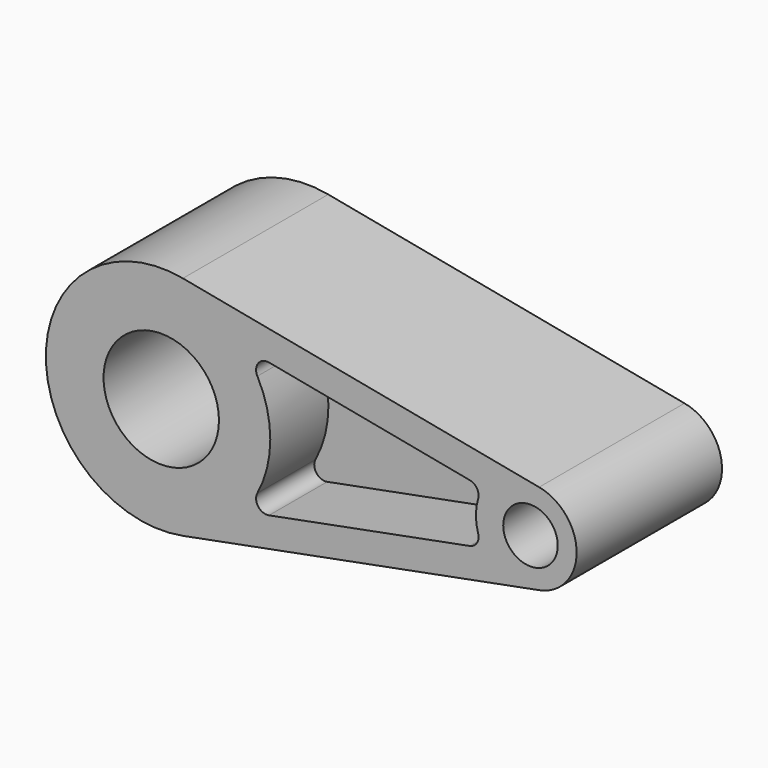
from build123d import *

# Parameters (mm, degrees)
F1_DEPTH = 25
F3_D     = 15
F4_R     = 15.875
F5_DEPTH = 50.001
F7_DEPTH = 20
F9_DEPTH = 20
F10_R    = 3
F11_R    = 3


with BuildPart() as f1:
    # F0 (on Front) → F1 (new body, symmetric)
    with BuildSketch(Plane.XZ):
        with BuildLine():
            Line((103.98125, 12.47476), (5.953125, 31.186901))
            ThreePointArc((5.953125, 31.186901), (-31.75, 0), (5.953125, -31.186901))
            Line((5.953125, -31.186901), (103.98125, -12.47476))
            ThreePointArc((103.98125, -12.47476), (114.3, 0), (103.98125, 12.47476))
        make_face()
    extrude(amount=F1_DEPTH, both=True)

    # F3 (through all)
    with Locations(Plane.XZ.offset(25)):
        with Locations((101.6, 0)):
            Hole(F3_D / 2)

    # F4 (on face) → F5 (cut, through all)
    with BuildSketch(Plane.XZ.offset(25)):
        Circle(F4_R)
    extrude(amount=-F5_DEPTH, mode=Mode.SUBTRACT)

    # F6 (on face) → F7 (cut)
    with BuildSketch(Plane.XZ.offset(25)):
        with BuildLine():
            Line((88.489236, 7.287515), (22.456658, 19.892172))
            ThreePointArc((22.456658, 19.892172), (30, 0), (22.456658, -19.892172))
            Line((22.456658, -19.892172), (88.489236, -7.287515))
            ThreePointArc((88.489236, -7.287515), (86.6, 0), (88.489236, 7.287515))
        make_face()
    extrude(amount=-F7_DEPTH, mode=Mode.SUBTRACT)

    # F8 (on face) → F9 (cut)
    with BuildSketch(Plane(origin=(0, 25, 0), x_dir=(-1, 0, 0), z_dir=(0, 1, 0))):
        with BuildLine():
            Line((-88.489236, -7.287515), (-22.456658, -19.892172))
            ThreePointArc((-22.456658, -19.892172), (-30, 0), (-22.456658, 19.892172))
            Line((-22.456658, 19.892172), (-88.489236, 7.287515))
            ThreePointArc((-88.489236, 7.287515), (-86.6, 0), (-88.489236, -7.287515))
        make_face()
    extrude(amount=-F9_DEPTH, mode=Mode.SUBTRACT)

    # F10
    f10_edges = [f1.edges().sort_by_distance(p)[0] for p in [
        (22.456658, -15, -19.892172),
        (22.456658, -15, 19.892172),
        (22.456658, 15, 19.892172),
        (22.456658, 15, -19.892172),
    ]]
    fillet(f10_edges, radius=F10_R)

    # F11
    f11_edges = [f1.edges().sort_by_distance(p)[0] for p in [
        (88.489236, 15, -7.287515),
        (88.489236, 15, 7.287515),
        (88.489236, -15, 7.287515),
        (88.489236, -15, -7.287515),
    ]]
    fillet(f11_edges, radius=F11_R)


solid = f1.part
